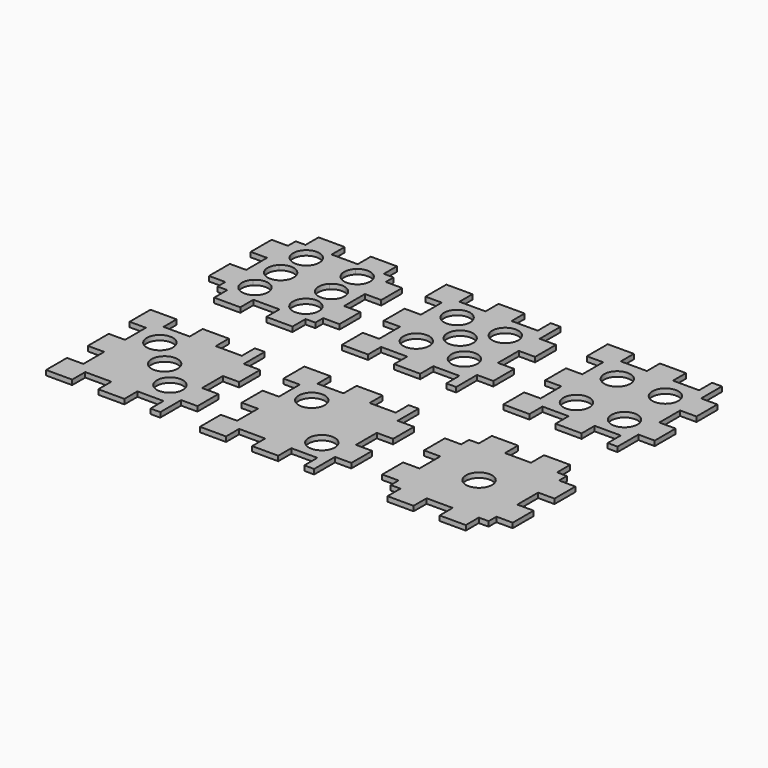
from build123d import *

# Parameters (mm, degrees)
F1_DEPTH = 3


with BuildPart() as f1:
    # F0 (on Top) → F1 (new body)
    with BuildSketch(Plane.XY):
        Polygon((-126.6716668228, 30.4544448819), (-126.6716668228, 24.4544448819), (-120.6716668228, 24.4544448819), (-120.6716668228, 14.4544448819), (-104.6716668228, 14.4544448819), (-104.6716668228, 24.4544448819), (-88.6716668228, 24.4544448819), (-88.6716668228, 14.4544448819), (-72.6716668228, 14.4544448819), (-72.6716668228, 24.4544448819), (-66.6716668228, 24.4544448819), (-66.6716668228, 30.4544448819), (-56.6716668228, 30.4544448819), (-56.6716668228, 46.4544448819), (-66.6716668228, 46.4544448819), (-66.6716668228, 62.4544448819), (-56.6716668228, 62.4544448819), (-56.6716668228, 78.4544448819), (-66.6716668228, 78.4544448819), (-66.6716668228, 84.4544448819), (-72.6716668228, 84.4544448819), (-72.6716668228, 94.4544448819), (-88.6716668228, 94.4544448819), (-88.6716668228, 84.4544448819), (-104.6716668228, 84.4544448819), (-104.6716668228, 94.4544448819), (-120.6716668228, 94.4544448819), (-120.6716668228, 84.4544448819), (-126.6716668228, 84.4544448819), (-126.6716668228, 78.4544448819), (-136.6716668228, 78.4544448819), (-136.6716668228, 62.4544448819), (-126.6716668228, 62.4544448819), (-126.6716668228, 46.4544448819), (-136.6716668228, 46.4544448819), (-136.6716668228, 30.4544448819), align=None)
        with BuildLine():
            add(Edge.make_bspline(
                [(-108.9370880827, 42.257480315), (-105.9476943819, 41.0192322835), (-103.9985565866, 38.1021417323), (-103.9985565866, 34.8664448819)],
                knots=[0, 0, 0, 0, 1, 1, 1, 1], degree=3))
            add(Edge.make_bspline(
                [(-103.9985565866, 34.8664448819), (-103.9985565866, 32.7447125984), (-104.8414109173, 30.7098818898), (-106.3417022559, 29.2095905512)],
                knots=[0, 0, 0, 0, 1, 1, 1, 1], degree=3))
            add(Edge.make_bspline(
                [(-106.3417022559, 29.2095905512), (-107.8419935945, 27.7092992126), (-109.8768243031, 26.8664448819), (-111.9985565866, 26.8664448819)],
                knots=[0, 0, 0, 0, 1, 1, 1, 1], degree=3))
            add(Edge.make_bspline(
                [(-111.9985565866, 26.8664448819), (-115.234253437, 26.8664448819), (-118.1513439882, 28.8155826772), (-119.3895920197, 31.804976378)],
                knots=[0, 0, 0, 0, 1, 1, 1, 1], degree=3))
            add(Edge.make_bspline(
                [(-119.3895920197, 31.804976378), (-120.6278400512, 34.7943740157), (-119.9433951693, 38.2353149606), (-117.6554109173, 40.5232992126)],
                knots=[0, 0, 0, 0, 1, 1, 1, 1], degree=3))
            add(Edge.make_bspline(
                [(-117.6554109173, 40.5232992126), (-115.3674266654, 42.8112834646), (-111.9264817835, 43.4957283465), (-108.9370880827, 42.257480315)],
                knots=[0, 0, 0, 0, 1, 1, 1, 1], degree=3))
        make_face(mode=Mode.SUBTRACT)
        with BuildLine():
            add(Edge.make_bspline(
                [(-77.7214227283, 42.257480315), (-74.7320250906, 41.0192322835), (-72.7828872953, 38.1021417323), (-72.7828872953, 34.8664448819)],
                knots=[0, 0, 0, 0, 1, 1, 1, 1], degree=3))
            add(Edge.make_bspline(
                [(-72.7828872953, 34.8664448819), (-72.7828872953, 32.7447125984), (-73.625745563, 30.7098818898), (-75.1260329646, 29.2095905512)],
                knots=[0, 0, 0, 0, 1, 1, 1, 1], degree=3))
            add(Edge.make_bspline(
                [(-75.1260329646, 29.2095905512), (-76.6263243031, 27.7092992126), (-78.6611589488, 26.8664448819), (-80.7828872953, 26.8664448819)],
                knots=[0, 0, 0, 0, 1, 1, 1, 1], degree=3))
            add(Edge.make_bspline(
                [(-80.7828872953, 26.8664448819), (-84.0185880827, 26.8664448819), (-86.9356786339, 28.8155826772), (-88.1739266654, 31.804976378)],
                knots=[0, 0, 0, 0, 1, 1, 1, 1], degree=3))
            add(Edge.make_bspline(
                [(-88.1739266654, 31.804976378), (-89.4121746969, 34.7943740157), (-88.727725878, 38.2353149606), (-86.439741626, 40.5232992126)],
                knots=[0, 0, 0, 0, 1, 1, 1, 1], degree=3))
            add(Edge.make_bspline(
                [(-86.439741626, 40.5232992126), (-84.151757374, 42.8112834646), (-80.7108164291, 43.4957283465), (-77.7214227283, 42.257480315)],
                knots=[0, 0, 0, 0, 1, 1, 1, 1], degree=3))
        make_face(mode=Mode.SUBTRACT)
        with BuildLine():
            add(Edge.make_bspline(
                [(-108.9370880827, 61.9132598425), (-105.9476943819, 60.675011811), (-103.9985565866, 57.7579212598), (-103.9985565866, 54.5222244094)],
                knots=[0, 0, 0, 0, 1, 1, 1, 1], degree=3))
            add(Edge.make_bspline(
                [(-103.9985565866, 54.5222244094), (-103.9985565866, 52.400492126), (-104.8414109173, 50.3656574803), (-106.3417022559, 48.8653700787)],
                knots=[0, 0, 0, 0, 1, 1, 1, 1], degree=3))
            add(Edge.make_bspline(
                [(-106.3417022559, 48.8653700787), (-107.8419935945, 47.3650787402), (-109.8768243031, 46.5222244094), (-111.9985565866, 46.5222244094)],
                knots=[0, 0, 0, 0, 1, 1, 1, 1], degree=3))
            add(Edge.make_bspline(
                [(-111.9985565866, 46.5222244094), (-115.234253437, 46.5222244094), (-118.1513439882, 48.4713582677), (-119.3895920197, 51.4607559055)],
                knots=[0, 0, 0, 0, 1, 1, 1, 1], degree=3))
            add(Edge.make_bspline(
                [(-119.3895920197, 51.4607559055), (-120.6278400512, 54.4501496063), (-119.9433951693, 57.8910944882), (-117.6554109173, 60.1790787402)],
                knots=[0, 0, 0, 0, 1, 1, 1, 1], degree=3))
            add(Edge.make_bspline(
                [(-117.6554109173, 60.1790787402), (-115.3674266654, 62.4670590551), (-111.9264817835, 63.151507874), (-108.9370880827, 61.9132598425)],
                knots=[0, 0, 0, 0, 1, 1, 1, 1], degree=3))
        make_face(mode=Mode.SUBTRACT)
        with BuildLine():
            add(Edge.make_bspline(
                [(-77.7214227283, 61.9132598425), (-74.7320250906, 60.675011811), (-72.7828872953, 57.7579212598), (-72.7828872953, 54.5222244094)],
                knots=[0, 0, 0, 0, 1, 1, 1, 1], degree=3))
            add(Edge.make_bspline(
                [(-72.7828872953, 54.5222244094), (-72.7828872953, 52.400492126), (-73.625745563, 50.3656574803), (-75.1260329646, 48.8653700787)],
                knots=[0, 0, 0, 0, 1, 1, 1, 1], degree=3))
            add(Edge.make_bspline(
                [(-75.1260329646, 48.8653700787), (-76.6263243031, 47.3650787402), (-78.6611589488, 46.5222244094), (-80.7828872953, 46.5222244094)],
                knots=[0, 0, 0, 0, 1, 1, 1, 1], degree=3))
            add(Edge.make_bspline(
                [(-80.7828872953, 46.5222244094), (-84.0185880827, 46.5222244094), (-86.9356786339, 48.4713582677), (-88.1739266654, 51.4607559055)],
                knots=[0, 0, 0, 0, 1, 1, 1, 1], degree=3))
            add(Edge.make_bspline(
                [(-88.1739266654, 51.4607559055), (-89.4121746969, 54.4501496063), (-88.727725878, 57.8910944882), (-86.439741626, 60.1790787402)],
                knots=[0, 0, 0, 0, 1, 1, 1, 1], degree=3))
            add(Edge.make_bspline(
                [(-86.439741626, 60.1790787402), (-84.151757374, 62.4670590551), (-80.7108164291, 63.151507874), (-77.7214227283, 61.9132598425)],
                knots=[0, 0, 0, 0, 1, 1, 1, 1], degree=3))
        make_face(mode=Mode.SUBTRACT)
        with BuildLine():
            add(Edge.make_bspline(
                [(-108.9370880827, 81.5693700787), (-105.9476943819, 80.3311220472), (-103.9985565866, 77.4140314961), (-103.9985565866, 74.1783346457)],
                knots=[0, 0, 0, 0, 1, 1, 1, 1], degree=3))
            add(Edge.make_bspline(
                [(-103.9985565866, 74.1783346457), (-103.9985565866, 72.0566023622), (-104.8414109173, 70.0217716535), (-106.3417022559, 68.521480315)],
                knots=[0, 0, 0, 0, 1, 1, 1, 1], degree=3))
            add(Edge.make_bspline(
                [(-106.3417022559, 68.521480315), (-107.8419935945, 67.0211889764), (-109.8768243031, 66.1783346457), (-111.9985565866, 66.1783346457)],
                knots=[0, 0, 0, 0, 1, 1, 1, 1], degree=3))
            add(Edge.make_bspline(
                [(-111.9985565866, 66.1783346457), (-115.234253437, 66.1783346457), (-118.1513439882, 68.1274724409), (-119.3895920197, 71.1168661417)],
                knots=[0, 0, 0, 0, 1, 1, 1, 1], degree=3))
            add(Edge.make_bspline(
                [(-119.3895920197, 71.1168661417), (-120.6278400512, 74.1062598425), (-119.9433951693, 77.5472047244), (-117.6554109173, 79.8351889764)],
                knots=[0, 0, 0, 0, 1, 1, 1, 1], degree=3))
            add(Edge.make_bspline(
                [(-117.6554109173, 79.8351889764), (-115.3674266654, 82.1231732283), (-111.9264817835, 82.8076181102), (-108.9370880827, 81.5693700787)],
                knots=[0, 0, 0, 0, 1, 1, 1, 1], degree=3))
        make_face(mode=Mode.SUBTRACT)
        with BuildLine():
            add(Edge.make_bspline(
                [(-77.7214227283, 81.5693700787), (-74.7320250906, 80.3311220472), (-72.7828872953, 77.4140314961), (-72.7828872953, 74.1783346457)],
                knots=[0, 0, 0, 0, 1, 1, 1, 1], degree=3))
            add(Edge.make_bspline(
                [(-72.7828872953, 74.1783346457), (-72.7828872953, 72.0566023622), (-73.625745563, 70.0217716535), (-75.1260329646, 68.521480315)],
                knots=[0, 0, 0, 0, 1, 1, 1, 1], degree=3))
            add(Edge.make_bspline(
                [(-75.1260329646, 68.521480315), (-76.6263243031, 67.0211889764), (-78.6611589488, 66.1783346457), (-80.7828872953, 66.1783346457)],
                knots=[0, 0, 0, 0, 1, 1, 1, 1], degree=3))
            add(Edge.make_bspline(
                [(-80.7828872953, 66.1783346457), (-84.0185880827, 66.1783346457), (-86.9356786339, 68.1274724409), (-88.1739266654, 71.1168661417)],
                knots=[0, 0, 0, 0, 1, 1, 1, 1], degree=3))
            add(Edge.make_bspline(
                [(-88.1739266654, 71.1168661417), (-89.4121746969, 74.1062598425), (-88.727725878, 77.5472047244), (-86.439741626, 79.8351889764)],
                knots=[0, 0, 0, 0, 1, 1, 1, 1], degree=3))
            add(Edge.make_bspline(
                [(-86.439741626, 79.8351889764), (-84.151757374, 82.1231732283), (-80.7108164291, 82.8076181102), (-77.7214227283, 81.5693700787)],
                knots=[0, 0, 0, 0, 1, 1, 1, 1], degree=3))
        make_face(mode=Mode.SUBTRACT)
    extrude(amount=F1_DEPTH)


with BuildPart() as f1b:
    # F0 (on Top) → F1, piece 2 (new body)
    with BuildSketch(Plane.XY):
        Polygon((56.5808882953, 30.4544448819), (56.5808882953, 14.4544448819), (72.5808882953, 14.4544448819), (72.5808882953, 24.4544448819), (88.5808882953, 24.4544448819), (88.5808882953, 14.4544448819), (104.5808882953, 14.4544448819), (104.5808882953, 24.4544448819), (120.5808882953, 24.4544448819), (120.5808882953, 14.4544448819), (126.5808882953, 14.4544448819), (126.5808882953, 30.4544448819), (136.5808882953, 30.4544448819), (136.5808882953, 46.4544448819), (126.5808882953, 46.4544448819), (126.5808882953, 62.4544448819), (136.5808882953, 62.4544448819), (136.5808882953, 78.4544448819), (126.5808882953, 78.4544448819), (126.5808882953, 94.4544448819), (120.5808882953, 94.4544448819), (120.5808882953, 84.4544448819), (104.5808882953, 84.4544448819), (104.5808882953, 94.4544448819), (88.5808882953, 94.4544448819), (88.5808882953, 84.4544448819), (72.5808882953, 84.4544448819), (72.5808882953, 94.4544448819), (56.5808882953, 94.4544448819), (56.5808882953, 78.4544448819), (66.5808882953, 78.4544448819), (66.5808882953, 62.4544448819), (56.5808882953, 62.4544448819), (56.5808882953, 46.4544448819), (66.5808882953, 46.4544448819), (66.5808882953, 30.4544448819), align=None)
        with BuildLine():
            add(Edge.make_bspline(
                [(82.6565536496, 45.8712244094), (87.0741127047, 45.8712244094), (90.6565536496, 42.2885551181), (90.6565536496, 37.8712244094)],
                knots=[0, 0, 0, 0, 1, 1, 1, 1], degree=3))
            add(Edge.make_bspline(
                [(90.6565536496, 37.8712244094), (90.6565536496, 33.4538897638), (87.0741127047, 29.8712244094), (82.6565536496, 29.8712244094)],
                knots=[0, 0, 0, 0, 1, 1, 1, 1], degree=3))
            add(Edge.make_bspline(
                [(82.6565536496, 29.8712244094), (78.2388882953, 29.8712244094), (74.6565536496, 33.4538897638), (74.6565536496, 37.8712244094)],
                knots=[0, 0, 0, 0, 1, 1, 1, 1], degree=3))
            add(Edge.make_bspline(
                [(74.6565536496, 37.8712244094), (74.6565536496, 42.2885551181), (78.2388882953, 45.8712244094), (82.6565536496, 45.8712244094)],
                knots=[0, 0, 0, 0, 1, 1, 1, 1], degree=3))
        make_face(mode=Mode.SUBTRACT)
        with BuildLine():
            add(Edge.make_bspline(
                [(111.7324434134, 46.3814448819), (116.1501127047, 46.3814448819), (119.7324434134, 42.7987795276), (119.7324434134, 38.3814448819)],
                knots=[0, 0, 0, 0, 1, 1, 1, 1], degree=3))
            add(Edge.make_bspline(
                [(119.7324434134, 38.3814448819), (119.7324434134, 33.9641102362), (116.1501127047, 30.3814448819), (111.7324434134, 30.3814448819)],
                knots=[0, 0, 0, 0, 1, 1, 1, 1], degree=3))
            add(Edge.make_bspline(
                [(111.7324434134, 30.3814448819), (107.3147780591, 30.3814448819), (103.7324434134, 33.9641102362), (103.7324434134, 38.3814448819)],
                knots=[0, 0, 0, 0, 1, 1, 1, 1], degree=3))
            add(Edge.make_bspline(
                [(103.7324434134, 38.3814448819), (103.7324434134, 42.7987795276), (107.3147780591, 46.3814448819), (111.7324434134, 46.3814448819)],
                knots=[0, 0, 0, 0, 1, 1, 1, 1], degree=3))
        make_face(mode=Mode.SUBTRACT)
        with BuildLine():
            add(Edge.make_bspline(
                [(82.6565536496, 77.183), (87.0741127047, 77.183), (90.6565536496, 73.6003346457), (90.6565536496, 69.183)],
                knots=[0, 0, 0, 0, 1, 1, 1, 1], degree=3))
            add(Edge.make_bspline(
                [(90.6565536496, 69.183), (90.6565536496, 64.7656653543), (87.0741127047, 61.183), (82.6565536496, 61.183)],
                knots=[0, 0, 0, 0, 1, 1, 1, 1], degree=3))
            add(Edge.make_bspline(
                [(82.6565536496, 61.183), (78.2388882953, 61.183), (74.6565536496, 64.7656653543), (74.6565536496, 69.183)],
                knots=[0, 0, 0, 0, 1, 1, 1, 1], degree=3))
            add(Edge.make_bspline(
                [(74.6565536496, 69.183), (74.6565536496, 73.6003346457), (78.2388882953, 77.183), (82.6565536496, 77.183)],
                knots=[0, 0, 0, 0, 1, 1, 1, 1], degree=3))
        make_face(mode=Mode.SUBTRACT)
        with BuildLine():
            add(Edge.make_bspline(
                [(111.7324434134, 77.6932244094), (116.1501127047, 77.6932244094), (119.7324434134, 74.1105551181), (119.7324434134, 69.6932244094)],
                knots=[0, 0, 0, 0, 1, 1, 1, 1], degree=3))
            add(Edge.make_bspline(
                [(119.7324434134, 69.6932244094), (119.7324434134, 65.2758897638), (116.1501127047, 61.6932244094), (111.7324434134, 61.6932244094)],
                knots=[0, 0, 0, 0, 1, 1, 1, 1], degree=3))
            add(Edge.make_bspline(
                [(111.7324434134, 61.6932244094), (107.3147780591, 61.6932244094), (103.7324434134, 65.2758897638), (103.7324434134, 69.6932244094)],
                knots=[0, 0, 0, 0, 1, 1, 1, 1], degree=3))
            add(Edge.make_bspline(
                [(103.7324434134, 69.6932244094), (103.7324434134, 74.1105551181), (107.3147780591, 77.6932244094), (111.7324434134, 77.6932244094)],
                knots=[0, 0, 0, 0, 1, 1, 1, 1], degree=3))
        make_face(mode=Mode.SUBTRACT)
    extrude(amount=F1_DEPTH)


with BuildPart() as f1c:
    # F0 (on Top) → F1, piece 3 (new body)
    with BuildSketch(Plane.XY):
        Polygon((-42.3532219409, -78.3637755906), (-42.3532219409, -94.3637755906), (-26.3532219409, -94.3637755906), (-26.3532219409, -84.3637755906), (-10.3532219409, -84.3637755906), (-10.3532219409, -94.3637755906), (5.6467780591, -94.3637755906), (5.6467780591, -84.3637755906), (21.6467780591, -84.3637755906), (21.6467780591, -94.3637755906), (27.6467780591, -94.3637755906), (27.6467780591, -78.3637755906), (37.6467780591, -78.3637755906), (37.6467780591, -62.3637755906), (27.6467780591, -62.3637755906), (27.6467780591, -46.3637755906), (37.6467780591, -46.3637755906), (37.6467780591, -30.3637755906), (27.6467780591, -30.3637755906), (27.6467780591, -14.3637755906), (21.6467780591, -14.3637755906), (21.6467780591, -24.3637755906), (5.6467780591, -24.3637755906), (5.6467780591, -14.3637755906), (-10.3532219409, -14.3637755906), (-10.3532219409, -24.3637755906), (-26.3532219409, -24.3637755906), (-26.3532219409, -14.3637755906), (-42.3532219409, -14.3637755906), (-42.3532219409, -30.3637755906), (-32.3532219409, -30.3637755906), (-32.3532219409, -46.3637755906), (-42.3532219409, -46.3637755906), (-42.3532219409, -62.3637755906), (-32.3532219409, -62.3637755906), (-32.3532219409, -78.3637755906), align=None)
        with BuildLine():
            add(Edge.make_bspline(
                [(-17.7132219409, -31.4683346457), (-13.2956668228, -31.4683346457), (-9.7132219409, -35.051), (-9.7132219409, -39.4683346457)],
                knots=[0, 0, 0, 0, 1, 1, 1, 1], degree=3))
            add(Edge.make_bspline(
                [(-9.7132219409, -39.4683346457), (-9.7132219409, -43.8856653543), (-13.2956668228, -47.4683346457), (-17.7132219409, -47.4683346457)],
                knots=[0, 0, 0, 0, 1, 1, 1, 1], degree=3))
            add(Edge.make_bspline(
                [(-17.7132219409, -47.4683346457), (-22.1308872953, -47.4683346457), (-25.7132219409, -43.8856653543), (-25.7132219409, -39.4683346457)],
                knots=[0, 0, 0, 0, 1, 1, 1, 1], degree=3))
            add(Edge.make_bspline(
                [(-25.7132219409, -39.4683346457), (-25.7132219409, -35.051), (-22.1308872953, -31.4683346457), (-17.7132219409, -31.4683346457)],
                knots=[0, 0, 0, 0, 1, 1, 1, 1], degree=3))
        make_face(mode=Mode.SUBTRACT)
        with BuildLine():
            add(Edge.make_bspline(
                [(13.5024434134, -62.7801102362), (17.9201127047, -62.7801102362), (21.5024434134, -66.3627755906), (21.5024434134, -70.7801102362)],
                knots=[0, 0, 0, 0, 1, 1, 1, 1], degree=3))
            add(Edge.make_bspline(
                [(21.5024434134, -70.7801102362), (21.5024434134, -75.1974448819), (17.9201127047, -78.7801102362), (13.5024434134, -78.7801102362)],
                knots=[0, 0, 0, 0, 1, 1, 1, 1], degree=3))
            add(Edge.make_bspline(
                [(13.5024434134, -78.7801102362), (9.0848882953, -78.7801102362), (5.5024434134, -75.1974448819), (5.5024434134, -70.7801102362)],
                knots=[0, 0, 0, 0, 1, 1, 1, 1], degree=3))
            add(Edge.make_bspline(
                [(5.5024434134, -70.7801102362), (5.5024434134, -66.3627755906), (9.0848882953, -62.7801102362), (13.5024434134, -62.7801102362)],
                knots=[0, 0, 0, 0, 1, 1, 1, 1], degree=3))
        make_face(mode=Mode.SUBTRACT)
    extrude(amount=F1_DEPTH)


with BuildPart() as f1d:
    # F0 (on Top) → F1, piece 4 (new body)
    with BuildSketch(Plane.XY):
        Polygon((-42.3532219409, 30.4544448819), (-42.3532219409, 14.4544448819), (-26.3532219409, 14.4544448819), (-26.3532219409, 24.4544448819), (-10.3532219409, 24.4544448819), (-10.3532219409, 14.4544448819), (5.6467780591, 14.4544448819), (5.6467780591, 24.4544448819), (21.6467780591, 24.4544448819), (21.6467780591, 14.4544448819), (27.6467780591, 14.4544448819), (27.6467780591, 30.4544448819), (37.6467780591, 30.4544448819), (37.6467780591, 46.4544448819), (27.6467780591, 46.4544448819), (27.6467780591, 62.4544448819), (37.6467780591, 62.4544448819), (37.6467780591, 78.4544448819), (27.6467780591, 78.4544448819), (27.6467780591, 94.4544448819), (21.6467780591, 94.4544448819), (21.6467780591, 84.4544448819), (5.6467780591, 84.4544448819), (5.6467780591, 94.4544448819), (-10.3532219409, 94.4544448819), (-10.3532219409, 84.4544448819), (-26.3532219409, 84.4544448819), (-26.3532219409, 94.4544448819), (-42.3532219409, 94.4544448819), (-42.3532219409, 78.4544448819), (-32.3532219409, 78.4544448819), (-32.3532219409, 62.4544448819), (-42.3532219409, 62.4544448819), (-42.3532219409, 46.4544448819), (-32.3532219409, 46.4544448819), (-32.3532219409, 30.4544448819), align=None)
        with BuildLine():
            add(Edge.make_bspline(
                [(-16.9712219409, 47.6822244094), (-12.5535565866, 47.6822244094), (-8.9712219409, 44.0995551181), (-8.9712219409, 39.6822244094)],
                knots=[0, 0, 0, 0, 1, 1, 1, 1], degree=3))
            add(Edge.make_bspline(
                [(-8.9712219409, 39.6822244094), (-8.9712219409, 35.2648897638), (-12.5535565866, 31.6822244094), (-16.9712219409, 31.6822244094)],
                knots=[0, 0, 0, 0, 1, 1, 1, 1], degree=3))
            add(Edge.make_bspline(
                [(-16.9712219409, 31.6822244094), (-21.3888872953, 31.6822244094), (-24.9712219409, 35.2648897638), (-24.9712219409, 39.6822244094)],
                knots=[0, 0, 0, 0, 1, 1, 1, 1], degree=3))
            add(Edge.make_bspline(
                [(-24.9712219409, 39.6822244094), (-24.9712219409, 44.0995551181), (-21.3888872953, 47.6822244094), (-16.9712219409, 47.6822244094)],
                knots=[0, 0, 0, 0, 1, 1, 1, 1], degree=3))
        make_face(mode=Mode.SUBTRACT)
        with BuildLine():
            add(Edge.make_bspline(
                [(-2.4754463504, 63.1974448819), (1.9422229409, 63.1974448819), (5.5245536496, 59.6147795276), (5.5245536496, 55.1974448819)],
                knots=[0, 0, 0, 0, 1, 1, 1, 1], degree=3))
            add(Edge.make_bspline(
                [(5.5245536496, 55.1974448819), (5.5245536496, 50.7802244094), (1.9422229409, 47.1974448819), (-2.4754463504, 47.1974448819)],
                knots=[0, 0, 0, 0, 1, 1, 1, 1], degree=3))
            add(Edge.make_bspline(
                [(-2.4754463504, 47.1974448819), (-6.8931117047, 47.1974448819), (-10.4754463504, 50.7802244094), (-10.4754463504, 55.1974448819)],
                knots=[0, 0, 0, 0, 1, 1, 1, 1], degree=3))
            add(Edge.make_bspline(
                [(-10.4754463504, 55.1974448819), (-10.4754463504, 59.6147795276), (-6.8931117047, 63.1974448819), (-2.4754463504, 63.1974448819)],
                knots=[0, 0, 0, 0, 1, 1, 1, 1], degree=3))
        make_face(mode=Mode.SUBTRACT)
        with BuildLine():
            add(Edge.make_bspline(
                [(-16.9712219409, 78.994), (-12.5535565866, 78.994), (-8.9712219409, 75.4113346457), (-8.9712219409, 70.994)],
                knots=[0, 0, 0, 0, 1, 1, 1, 1], degree=3))
            add(Edge.make_bspline(
                [(-8.9712219409, 70.994), (-8.9712219409, 66.5766653543), (-12.5535565866, 62.994), (-16.9712219409, 62.994)],
                knots=[0, 0, 0, 0, 1, 1, 1, 1], degree=3))
            add(Edge.make_bspline(
                [(-16.9712219409, 62.994), (-21.3888872953, 62.994), (-24.9712219409, 66.5766653543), (-24.9712219409, 70.994)],
                knots=[0, 0, 0, 0, 1, 1, 1, 1], degree=3))
            add(Edge.make_bspline(
                [(-24.9712219409, 70.994), (-24.9712219409, 75.4113346457), (-21.3888872953, 78.994), (-16.9712219409, 78.994)],
                knots=[0, 0, 0, 0, 1, 1, 1, 1], degree=3))
        make_face(mode=Mode.SUBTRACT)
        with BuildLine():
            add(Edge.make_bspline(
                [(12.6139985315, 47.5802244094), (17.0316678228, 47.5802244094), (20.6139985315, 43.9974448819), (20.6139985315, 39.5802244094)],
                knots=[0, 0, 0, 0, 1, 1, 1, 1], degree=3))
            add(Edge.make_bspline(
                [(20.6139985315, 39.5802244094), (20.6139985315, 35.1628897638), (17.0316678228, 31.5802244094), (12.6139985315, 31.5802244094)],
                knots=[0, 0, 0, 0, 1, 1, 1, 1], degree=3))
            add(Edge.make_bspline(
                [(12.6139985315, 31.5802244094), (8.1963331772, 31.5802244094), (4.6139985315, 35.1628897638), (4.6139985315, 39.5802244094)],
                knots=[0, 0, 0, 0, 1, 1, 1, 1], degree=3))
            add(Edge.make_bspline(
                [(4.6139985315, 39.5802244094), (4.6139985315, 43.9974448819), (8.1963331772, 47.5802244094), (12.6139985315, 47.5802244094)],
                knots=[0, 0, 0, 0, 1, 1, 1, 1], degree=3))
        make_face(mode=Mode.SUBTRACT)
        with BuildLine():
            add(Edge.make_bspline(
                [(12.6139985315, 78.892), (17.0316678228, 78.892), (20.6139985315, 75.3093346457), (20.6139985315, 70.892)],
                knots=[0, 0, 0, 0, 1, 1, 1, 1], degree=3))
            add(Edge.make_bspline(
                [(20.6139985315, 70.892), (20.6139985315, 66.4746653543), (17.0316678228, 62.892), (12.6139985315, 62.892)],
                knots=[0, 0, 0, 0, 1, 1, 1, 1], degree=3))
            add(Edge.make_bspline(
                [(12.6139985315, 62.892), (8.1963331772, 62.892), (4.6139985315, 66.4746653543), (4.6139985315, 70.892)],
                knots=[0, 0, 0, 0, 1, 1, 1, 1], degree=3))
            add(Edge.make_bspline(
                [(4.6139985315, 70.892), (4.6139985315, 75.3093346457), (8.1963331772, 78.892), (12.6139985315, 78.892)],
                knots=[0, 0, 0, 0, 1, 1, 1, 1], degree=3))
        make_face(mode=Mode.SUBTRACT)
    extrude(amount=F1_DEPTH)


with BuildPart() as f1e:
    # F0 (on Top) → F1, piece 5 (new body)
    with BuildSketch(Plane.XY):
        Polygon((-136.6716668228, -78.3637755906), (-136.6716668228, -94.3637755906), (-120.6716668228, -94.3637755906), (-120.6716668228, -84.3637755906), (-104.6716668228, -84.3637755906), (-104.6716668228, -94.3637755906), (-88.6716668228, -94.3637755906), (-88.6716668228, -84.3637755906), (-72.6716668228, -84.3637755906), (-72.6716668228, -94.3637755906), (-66.6716668228, -94.3637755906), (-66.6716668228, -78.3637755906), (-56.6716668228, -78.3637755906), (-56.6716668228, -62.3637755906), (-66.6716668228, -62.3637755906), (-66.6716668228, -46.3637755906), (-56.6716668228, -46.3637755906), (-56.6716668228, -30.3637755906), (-66.6716668228, -30.3637755906), (-66.6716668228, -14.3637755906), (-72.6716668228, -14.3637755906), (-72.6716668228, -24.3637755906), (-88.6716668228, -24.3637755906), (-88.6716668228, -14.3637755906), (-104.6716668228, -14.3637755906), (-104.6716668228, -24.3637755906), (-120.6716668228, -24.3637755906), (-120.6716668228, -14.3637755906), (-136.6716668228, -14.3637755906), (-136.6716668228, -30.3637755906), (-126.6716668228, -30.3637755906), (-126.6716668228, -46.3637755906), (-136.6716668228, -46.3637755906), (-136.6716668228, -62.3637755906), (-126.6716668228, -62.3637755906), (-126.6716668228, -78.3637755906), align=None)
        with BuildLine():
            add(Edge.make_bspline(
                [(-80.6134463504, -61.5435551181), (-76.1957770591, -61.5435551181), (-72.6134463504, -65.1263346457), (-72.6134463504, -69.5435551181)],
                knots=[0, 0, 0, 0, 1, 1, 1, 1], degree=3))
            add(Edge.make_bspline(
                [(-72.6134463504, -69.5435551181), (-72.6134463504, -73.9608897638), (-76.1957770591, -77.5435551181), (-80.6134463504, -77.5435551181)],
                knots=[0, 0, 0, 0, 1, 1, 1, 1], degree=3))
            add(Edge.make_bspline(
                [(-80.6134463504, -77.5435551181), (-85.0310014685, -77.5435551181), (-88.6134463504, -73.9608897638), (-88.6134463504, -69.5435551181)],
                knots=[0, 0, 0, 0, 1, 1, 1, 1], degree=3))
            add(Edge.make_bspline(
                [(-88.6134463504, -69.5435551181), (-88.6134463504, -65.1263346457), (-85.0310014685, -61.5435551181), (-80.6134463504, -61.5435551181)],
                knots=[0, 0, 0, 0, 1, 1, 1, 1], degree=3))
        make_face(mode=Mode.SUBTRACT)
        with BuildLine():
            add(Edge.make_bspline(
                [(-96.2745565866, -46.0384448819), (-91.8568872953, -46.0384448819), (-88.2745565866, -49.6211102362), (-88.2745565866, -54.0384448819)],
                knots=[0, 0, 0, 0, 1, 1, 1, 1], degree=3))
            add(Edge.make_bspline(
                [(-88.2745565866, -54.0384448819), (-88.2745565866, -58.4557755906), (-91.8568872953, -62.0384448819), (-96.2745565866, -62.0384448819)],
                knots=[0, 0, 0, 0, 1, 1, 1, 1], degree=3))
            add(Edge.make_bspline(
                [(-96.2745565866, -62.0384448819), (-100.6921117047, -62.0384448819), (-104.2745565866, -58.4557755906), (-104.2745565866, -54.0384448819)],
                knots=[0, 0, 0, 0, 1, 1, 1, 1], degree=3))
            add(Edge.make_bspline(
                [(-104.2745565866, -54.0384448819), (-104.2745565866, -49.6211102362), (-100.6921117047, -46.0384448819), (-96.2745565866, -46.0384448819)],
                knots=[0, 0, 0, 0, 1, 1, 1, 1], degree=3))
        make_face(mode=Mode.SUBTRACT)
        with BuildLine():
            add(Edge.make_bspline(
                [(-111.8291117047, -30.2317755906), (-107.4115565866, -30.2317755906), (-103.8291117047, -33.8144448819), (-103.8291117047, -38.2317755906)],
                knots=[0, 0, 0, 0, 1, 1, 1, 1], degree=3))
            add(Edge.make_bspline(
                [(-103.8291117047, -38.2317755906), (-103.8291117047, -42.6491102362), (-107.4115565866, -46.2317755906), (-111.8291117047, -46.2317755906)],
                knots=[0, 0, 0, 0, 1, 1, 1, 1], degree=3))
            add(Edge.make_bspline(
                [(-111.8291117047, -46.2317755906), (-116.2467770591, -46.2317755906), (-119.8291117047, -42.6491102362), (-119.8291117047, -38.2317755906)],
                knots=[0, 0, 0, 0, 1, 1, 1, 1], degree=3))
            add(Edge.make_bspline(
                [(-119.8291117047, -38.2317755906), (-119.8291117047, -33.8144448819), (-116.2467770591, -30.2317755906), (-111.8291117047, -30.2317755906)],
                knots=[0, 0, 0, 0, 1, 1, 1, 1], degree=3))
        make_face(mode=Mode.SUBTRACT)
    extrude(amount=F1_DEPTH)


with BuildPart() as f1f:
    # F0 (on Top) → F1, piece 6 (new body)
    with BuildSketch(Plane.XY):
        Polygon((66.6716678228, -78.4544448819), (66.6716678228, -84.4544448819), (72.6716678228, -84.4544448819), (72.6716678228, -94.4544448819), (88.6716678228, -94.4544448819), (88.6716678228, -84.4544448819), (104.6716678228, -84.4544448819), (104.6716678228, -94.4544448819), (120.6716678228, -94.4544448819), (120.6716678228, -84.4544448819), (126.6716678228, -84.4544448819), (126.6716678228, -78.4544448819), (136.6716678228, -78.4544448819), (136.6716678228, -62.4544448819), (126.6716678228, -62.4544448819), (126.6716678228, -46.4544448819), (136.6716678228, -46.4544448819), (136.6716678228, -30.4544448819), (126.6716678228, -30.4544448819), (126.6716678228, -24.4544448819), (120.6716678228, -24.4544448819), (120.6716678228, -14.4544448819), (104.6716678228, -14.4544448819), (104.6716678228, -24.4544448819), (88.6716678228, -24.4544448819), (88.6716678228, -14.4544448819), (72.6716678228, -14.4544448819), (72.6716678228, -24.4544448819), (66.6716678228, -24.4544448819), (66.6716678228, -30.4544448819), (56.6716678228, -30.4544448819), (56.6716678228, -46.4544448819), (66.6716678228, -46.4544448819), (66.6716678228, -62.4544448819), (56.6716678228, -62.4544448819), (56.6716678228, -78.4544448819), align=None)
        with BuildLine():
            add(Edge.make_bspline(
                [(96.5138882953, -46.0655551181), (100.9314434134, -46.0655551181), (104.5138882953, -49.6482204724), (104.5138882953, -54.0655551181)],
                knots=[0, 0, 0, 0, 1, 1, 1, 1], degree=3))
            add(Edge.make_bspline(
                [(104.5138882953, -54.0655551181), (104.5138882953, -58.4827755906), (100.9314434134, -62.0655551181), (96.5138882953, -62.0655551181)],
                knots=[0, 0, 0, 0, 1, 1, 1, 1], degree=3))
            add(Edge.make_bspline(
                [(96.5138882953, -62.0655551181), (92.0962229409, -62.0655551181), (88.5138882953, -58.4827755906), (88.5138882953, -54.0655551181)],
                knots=[0, 0, 0, 0, 1, 1, 1, 1], degree=3))
            add(Edge.make_bspline(
                [(88.5138882953, -54.0655551181), (88.5138882953, -49.6482204724), (92.0962229409, -46.0655551181), (96.5138882953, -46.0655551181)],
                knots=[0, 0, 0, 0, 1, 1, 1, 1], degree=3))
        make_face(mode=Mode.SUBTRACT)
    extrude(amount=F1_DEPTH)


solid = Compound([f1.part, f1b.part, f1c.part, f1d.part, f1e.part, f1f.part])
